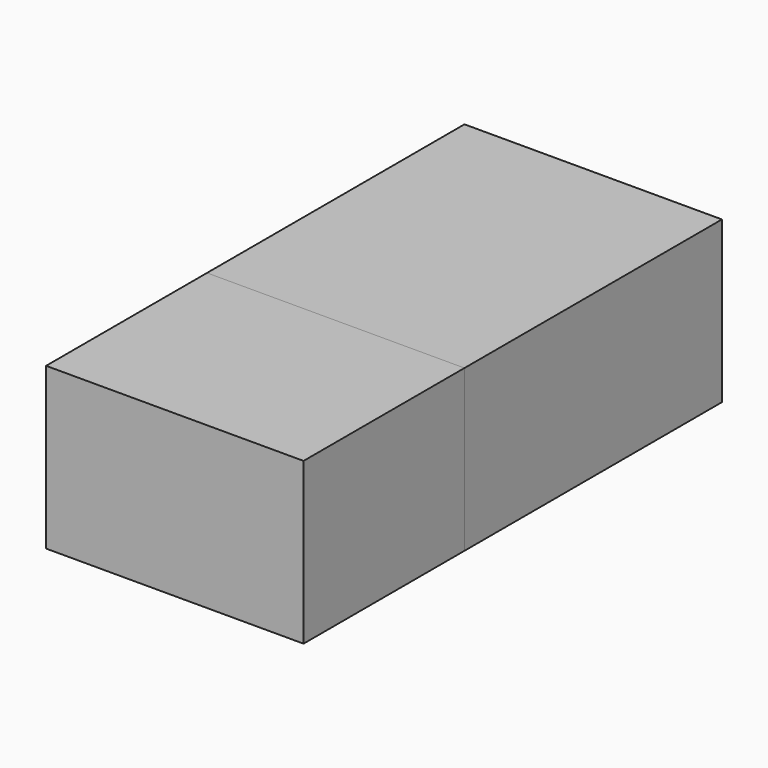
from build123d import *

# Parameters (mm, degrees)
F0_W     = 3200
F0_H     = 2000
F1_DEPTH = 2500
F2_DEPTH = 3500
F3_DEPTH = 4000


with BuildPart() as f1:
    # F0 (on Front) → F1 (new body)
    with BuildSketch(Plane.XZ):
        Rectangle(F0_W, F0_H)
    extrude(amount=F1_DEPTH)


with BuildPart() as f2:
    # F0 (on Front) → F2 (new body)
    with BuildSketch(Plane.XZ):
        Rectangle(F0_W, F0_H)
    extrude(amount=-F2_DEPTH)


with BuildPart() as f3:
    # F0 (on Front) → F3 (new body)
    with BuildSketch(Plane.XZ):
        Rectangle(F0_W, F0_H)
    extrude(amount=-F3_DEPTH)


solid = Compound([f1.part, f2.part, f3.part])
